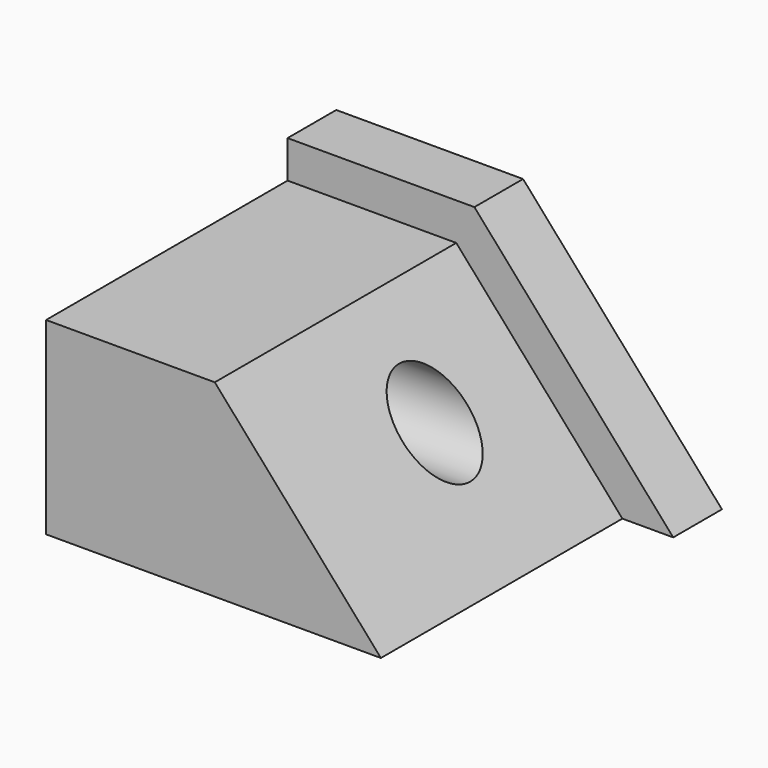
from build123d import *

# Parameters (mm, degrees)
F1_DEPTH = 37.846
F3_DEPTH = 62.992
F4_R     = 8.427475
F5_DEPTH = 74.168


with BuildPart() as f1:
    # F0 (on Front) → F1 (new body, symmetric)
    with BuildSketch(Plane.XZ):
        Polygon((-47.176249, 47.191884), (-47.176249, 0), (33.306468, 0), (-8.186842, 47.191884), align=None)
    extrude(amount=F1_DEPTH, both=True)

    # F2 (on face) → F3 (cut)
    with BuildSketch(Plane.XZ.offset(37.846)):
        Polygon((-47.176249, 47.191884), (-47.176249, 39.384045), (-11.969197, 39.384045), (22.694981, 0), (33.306468, 0), (-8.186842, 47.191884), align=None)
    extrude(amount=-F3_DEPTH, mode=Mode.SUBTRACT)

    # F4 (on face) → F5 (cut)
    with BuildSketch(Plane(origin=(-47.176249, 0, 0), x_dir=(0, -1, 0), z_dir=(-1, 0, 0))):
        with Locations((0, 21.656843)):
            Circle(F4_R)
    extrude(amount=-F5_DEPTH, mode=Mode.SUBTRACT)


solid = f1.part
